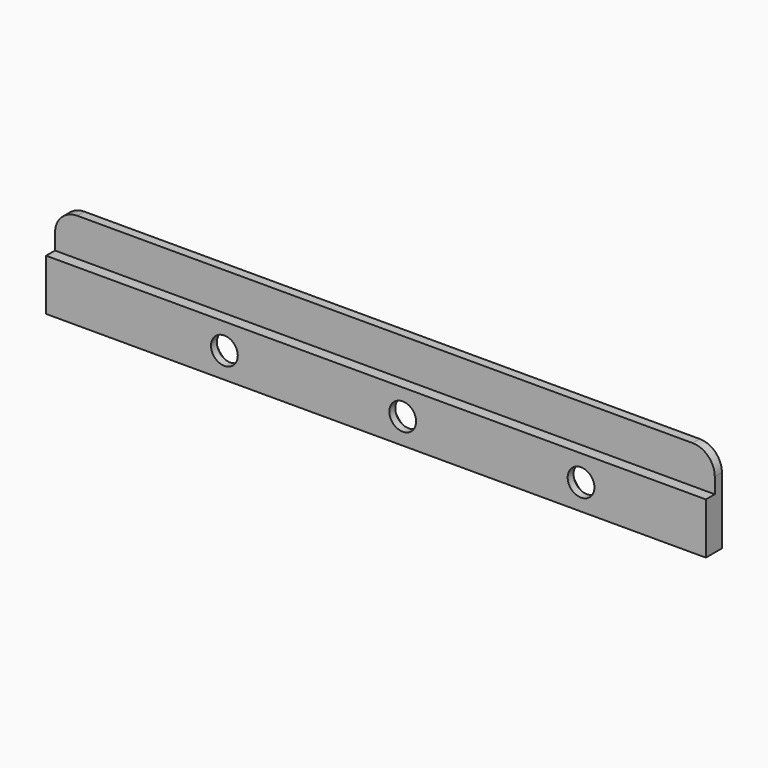
from build123d import *

# Parameters (mm, degrees)
F0_W           = 148
F0_H           = 11.5
F1_DEPTH       = 2.5
F2_W           = 148
F2_H           = 20
F3_DEPTH       = 2
F5_D           = 6
F5_CSINK_D     = 11.7
F5_CSINK_ANGLE = 90
F6_R           = 5


with BuildPart() as f1:
    # F0 (on Front) → F1 (new body)
    with BuildSketch(Plane.XZ):
        with Locations((0, 5.75)):
            Rectangle(F0_W, F0_H)
    extrude(amount=-F1_DEPTH)

    # F2 (on face) → F3 (join)
    with BuildSketch(Plane(origin=(0, 2.5, 0), x_dir=(-1, 0, 0), z_dir=(0, 1, 0))):
        with Locations((0, 10)):
            Rectangle(F2_W, F2_H)
    extrude(amount=F3_DEPTH)

    # F5 (through all)
    with Locations(Plane(origin=(0, 4.5, 0), x_dir=(-1, 0, 0), z_dir=(0, 1, 0))):
        with Locations((-46, 5.75), (-6, 5.75), (34, 5.75)):
            CounterSinkHole(F5_D / 2, F5_CSINK_D / 2, counter_sink_angle=F5_CSINK_ANGLE)

    # F6
    f6_edges = [f1.edges().sort_by_distance(p)[0] for p in [
        (-74, 3.5, 20),
        (74, 3.5, 20),
    ]]
    fillet(f6_edges, radius=F6_R)


solid = f1.part
